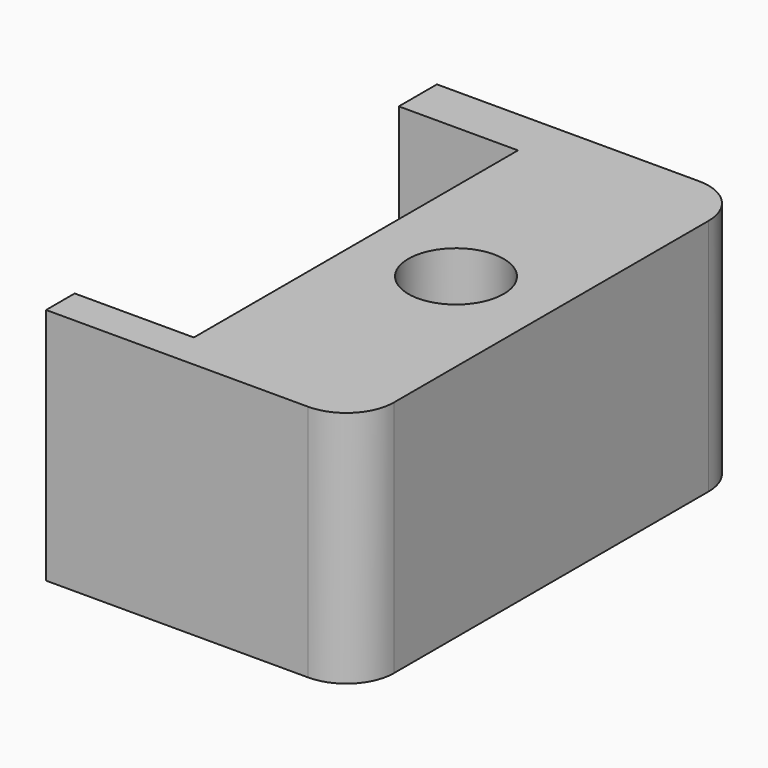
from build123d import *

# Parameters (mm, degrees)
CYLINDER_R     = 2
CYLINDER_DEPTH = 10
BOX_W          = 5
BOX_H          = 17
BOX_DEPTH      = 5
BOX001_W       = 13
BOX001_H       = 20.5
BOX001_DEPTH   = 10
FILLET_R       = 2


with BuildPart() as cylinder:
    # Cylinder → Cylinder (new body)
    with BuildSketch(Plane(origin=(9, 10.25, 0), x_dir=(1, 0, 0), z_dir=(0, 0, 1))):
        Circle(CYLINDER_R)
    extrude(amount=CYLINDER_DEPTH)


with BuildPart() as cube:
    # Box → Box (new body)
    with BuildSketch(Plane(origin=(0, 1.5, 5), x_dir=(1, 0, 0), z_dir=(0, 0, 1))):
        with Locations((2.5, 8.5)):
            Rectangle(BOX_W, BOX_H)
    extrude(amount=BOX_DEPTH)


with BuildPart() as fillet_body:
    # Box001 → Box001 (new body)
    with BuildSketch(Plane.XY):
        with Locations((6.5, 10.25)):
            Rectangle(BOX001_W, BOX001_H)
    extrude(amount=BOX001_DEPTH)

    # Cut: cut Cube
    add(cube.part, mode=Mode.SUBTRACT)

    # Cut001: cut Cylinder
    add(cylinder.part, mode=Mode.SUBTRACT)

    # Fillet
    fillet_edges = [fillet_body.edges().sort_by_distance(p)[0] for p in [
        (13, 20.5, 5),
        (13, 0, 5),
    ]]
    fillet(fillet_edges, radius=FILLET_R)


solid = fillet_body.part
